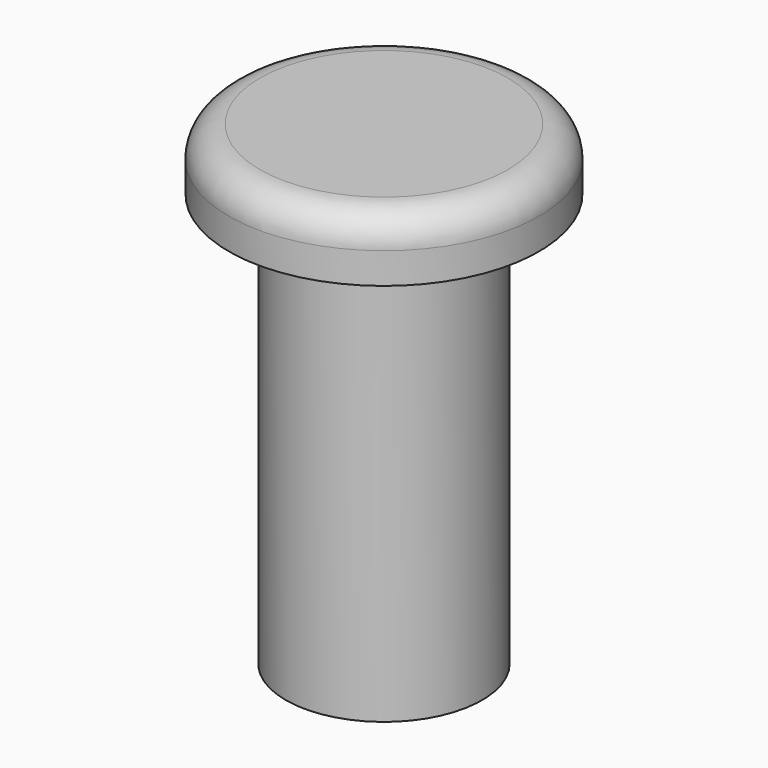
from build123d import *


with BuildPart() as f1:
    # F0 (on Front) → F1 (revolve)
    with BuildSketch(Plane.XZ):
        with BuildLine():
            Line((-4.75, 0), (-4.25, 0))
            Line((-4.25, 0), (-4.25, 18.450198))
            ThreePointArc((-4.25, 18.450198), (-4.074264, 18.874462), (-3.65, 19.050198))
            Line((-3.65, 19.050198), (0, 19.050198))
            Line((0, 19.050198), (0, 23))
            Line((0, 23), (-6, 23))
            ThreePointArc((-6, 23), (-7.06066, 22.56066), (-7.5, 21.5))
            Line((-7.5, 21.5), (-7.5, 20))
            Line((-7.5, 20), (-4.75, 20))
            Line((-4.75, 20), (-4.75, 11.8))
            Line((-4.75, 11.8), (-4.75, 0))
        make_face()
    revolve(axis=Axis((0, 0, 3.544833), (0, 0, 1)))


solid = f1.part
